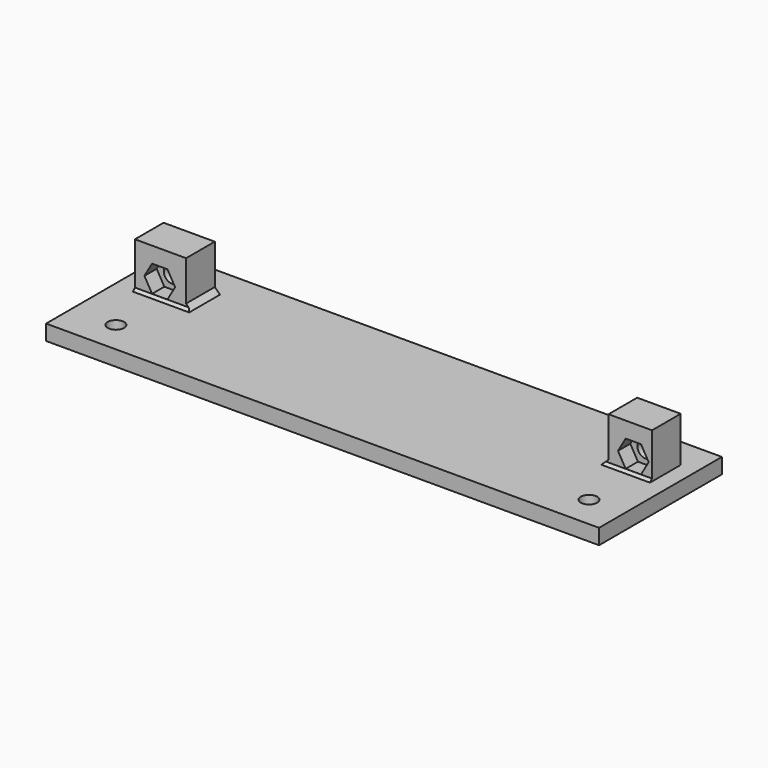
from build123d import *

# Parameters (mm, degrees)
CYLINDER019_R          = 1.6
CYLINDER019_DEPTH      = 10
PRISM002_DEPTH         = 3
BOX022_W               = 10
BOX022_H               = 11
BOX022_DEPTH           = 7
CYLINDER020_R          = 1.6
CYLINDER020_DEPTH      = 10
PRISM003_DEPTH         = 3
BOX023_W               = 8.5
BOX023_H               = 11
BOX023_DEPTH           = 7
CYLINDER017_R          = 1.6
CYLINDER017_DEPTH      = 10
CYLINDER017_ROLL_ANGLE = -90
CYLINDER015_R          = 1.6
CYLINDER015_DEPTH      = 10
CYLINDER015_ROLL_ANGLE = -90
BOX005_W               = 108
BOX005_H               = 3
BOX005_DEPTH           = 30
CHAMFER001_SIZE        = 1
CHAMFER002_SIZE        = 0.5
CHAMFER003_SIZE        = 0.5
CHAMFER003_ROLL_ANGLE  = -90


with BuildPart() as cylinder019:
    # Cylinder019 → Cylinder019 (new body)
    with BuildSketch(Plane(origin=(3.6, 5.69, -5), x_dir=(1, 0, 0), z_dir=(0, 0, 1))):
        Circle(CYLINDER019_R)
    extrude(amount=CYLINDER019_DEPTH)


with BuildPart() as prism002:
    # Prism002 → Prism002 (new body)
    with BuildSketch(Plane(origin=(3.6, 5.69, -7), x_dir=(1, 0, 0), z_dir=(0, 0, 1))):
        Polygon((3, 0), (1.5, 2.598076), (-1.5, 2.598076), (-3, 0), (-1.5, -2.598076), (1.5, -2.598076), align=None)
    extrude(amount=PRISM002_DEPTH)


with BuildPart() as cut010:
    # Box022 → Box022 (new body)
    with BuildSketch(Plane(origin=(-1.25, 0, -7), x_dir=(1, 0, 0), z_dir=(0, 0, 1))):
        with Locations((5, 5.5)):
            Rectangle(BOX022_W, BOX022_H)
    extrude(amount=BOX022_DEPTH)

    # Cut009: cut Prism002
    add(prism002.part, mode=Mode.SUBTRACT)


with BuildPart() as cut010_1:
    # Cut009 placement: moved
    add(cut010.part.moved(Location((0, 0, -1))))

    # Cut010: cut Cylinder019
    add(cylinder019.part, mode=Mode.SUBTRACT)


with BuildPart() as cut010_2:
    # Cut010 placement: moved
    add(cut010_1.part.moved(Location((0, 76.2, 0))))


with BuildPart() as cylinder020:
    # Cylinder020 → Cylinder020 (new body)
    with BuildSketch(Plane(origin=(3.6, 5.69, -5), x_dir=(1, 0, 0), z_dir=(0, 0, 1))):
        Circle(CYLINDER020_R)
    extrude(amount=CYLINDER020_DEPTH)


with BuildPart() as prism003:
    # Prism003 → Prism003 (new body)
    with BuildSketch(Plane(origin=(3.6, 5.69, -7), x_dir=(1, 0, 0), z_dir=(0, 0, 1))):
        Polygon((3, 0), (1.5, 2.598076), (-1.5, 2.598076), (-3, 0), (-1.5, -2.598076), (1.5, -2.598076), align=None)
    extrude(amount=PRISM003_DEPTH)


with BuildPart() as cut012:
    # Box023 → Box023 (new body)
    with BuildSketch(Plane(origin=(-1.25, 0, -7), x_dir=(1, 0, 0), z_dir=(0, 0, 1))):
        with Locations((4.25, 5.5)):
            Rectangle(BOX023_W, BOX023_H)
    extrude(amount=BOX023_DEPTH)

    # Cut011: cut Prism003
    add(prism003.part, mode=Mode.SUBTRACT)


with BuildPart() as cut012_1:
    # Cut011 placement: moved
    add(cut012.part.moved(Location((0, 0, -1))))

    # Cut012: cut Cylinder020
    add(cylinder020.part, mode=Mode.SUBTRACT)


with BuildPart() as cut012_2:
    # Cut012 placement: moved
    add(cut012_1.part.moved(Location((92.5, 76.2, 0))))


with BuildPart() as cylinder017:
    # Cylinder017 → Cylinder017 (new body)
    with BuildSketch(Plane.XY):
        Circle(CYLINDER017_R)
    extrude(amount=CYLINDER017_DEPTH)


with BuildPart() as cylinder017_1:
    # Cylinder017 roll: moved
    add(cylinder017.part.rotate(Axis((0, 0, 0), (1, 0, 0)), CYLINDER017_ROLL_ANGLE))


with BuildPart() as cylinder017_2:
    # Cylinder017 placement: moved
    add(cylinder017_1.part.moved(Location((96, 82, -18.7))))


with BuildPart() as left_holes:
    # Cylinder015 → Cylinder015 (new body)
    with BuildSketch(Plane.XY):
        Circle(CYLINDER015_R)
    extrude(amount=CYLINDER015_DEPTH)


with BuildPart() as left_holes_1:
    # Cylinder015 roll: moved
    add(left_holes.part.rotate(Axis((0, 0, 0), (1, 0, 0)), CYLINDER015_ROLL_ANGLE))


with BuildPart() as left_holes_2:
    # Cylinder015 placement: moved
    add(left_holes_1.part.moved(Location((3.6, 82, -18.7))))

    # Fusion006: union Cylinder017
    add(cylinder017_2.part)


with BuildPart() as left_side001:
    # Box005 → Box005 (new body)
    with BuildSketch(Plane(origin=(-5, 85, -25), x_dir=(1, 0, 0), z_dir=(0, 0, 1))):
        with Locations((54, 1.5)):
            Rectangle(BOX005_W, BOX005_H)
    extrude(amount=BOX005_DEPTH)

    # Cut026: cut left holes
    add(left_holes_2.part, mode=Mode.SUBTRACT)

    # Fusion012: union Cut010, Cut012
    add(cut010_2.part)
    add(cut012_2.part)

    # Chamfer001
    chamfer001_edges = [left_side001.edges().sort_by_distance(p)[0] for p in [
        (91.25, 85, -4.5),
        (8.75, 85, -4.5),
    ]]
    chamfer(chamfer001_edges, length=CHAMFER001_SIZE)

    # Chamfer002
    chamfer002_edges = [left_side001.edges().sort_by_distance(p)[0] for p in [
        (95.5, 85, -8),
    ]]
    chamfer(chamfer002_edges, length=CHAMFER002_SIZE)

    # Chamfer003
    chamfer003_edges = [left_side001.edges().sort_by_distance(p)[0] for p in [
        (3.75, 85, -8),
    ]]
    chamfer(chamfer003_edges, length=CHAMFER003_SIZE)


with BuildPart() as left_side001_1:
    # Chamfer003 roll: moved
    add(left_side001.part.rotate(Axis((0, 0, 0), (1, 0, 0)), CHAMFER003_ROLL_ANGLE))


with BuildPart() as left_side001_2:
    # Chamfer003 placement: moved
    add(left_side001_1.part.moved(Location((0, 123, 88))))


solid = left_side001_2.part
